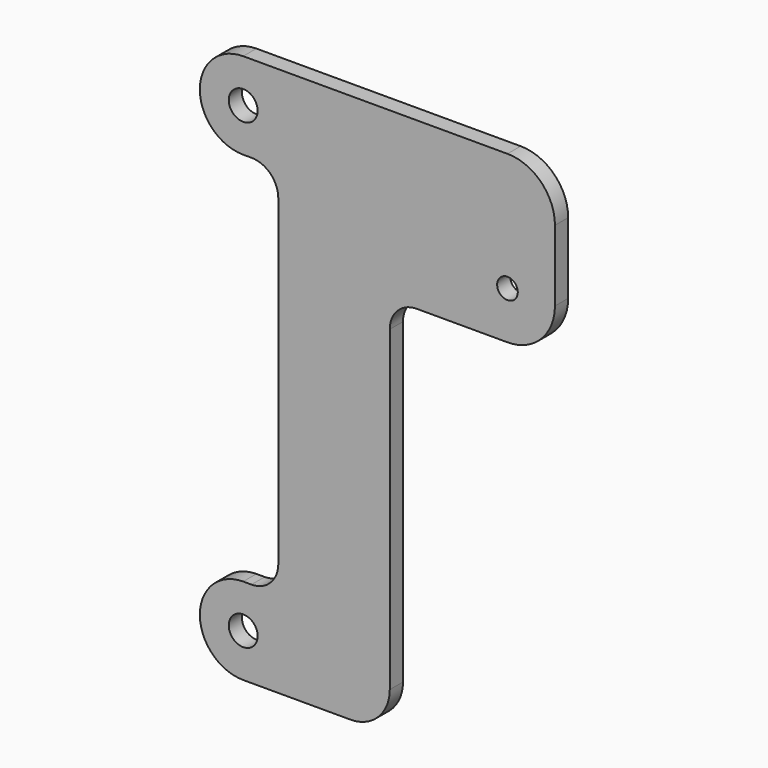
from build123d import *

# Parameters (mm, degrees)
F0_R     = 1.75
F0_R_2   = 1.25
F1_DEPTH = 2


with BuildPart() as f1:
    # F0 (on Front) → F1 (new body)
    with BuildSketch(Plane.XZ):
        with BuildLine():
            Line((32, 61.25), (0, 61.25))
            ThreePointArc((0, 61.25), (-5.25, 56), (0, 50.75))
            Line((0, 50.75), (1, 50.75))
            ThreePointArc((1, 50.75), (3.298097, 49.798097), (4.25, 47.5))
            Line((4.25, 47.5), (4.25, 8.5))
            ThreePointArc((4.25, 8.5), (3.298097, 6.201903), (1, 5.25))
            Line((1, 5.25), (0, 5.25))
            ThreePointArc((0, 5.25), (-5.25, 0), (0, -5.25))
            Line((0, -5.25), (13, -5.25))
            ThreePointArc((13, -5.25), (16.358757, -3.858757), (17.75, -0.5))
            Line((17.75, -0.5), (17.75, 37.905806))
            ThreePointArc((17.75, 37.905806), (18.701903, 40.203903), (21, 41.155806))
            Line((21, 41.155806), (31.741678, 41.155806))
            ThreePointArc((31.741678, 41.155806), (35.973484, 42.743809), (37.75, 46.9))
            Line((37.75, 46.9), (37.75, 55.5))
            ThreePointArc((37.75, 55.5), (36.065864, 59.565864), (32, 61.25))
        make_face()
        Circle(F0_R, mode=Mode.SUBTRACT)
        with Locations((0, 56)):
            Circle(F0_R, mode=Mode.SUBTRACT)
        with Locations((32, 46.9)):
            Circle(F0_R_2, mode=Mode.SUBTRACT)
    extrude(amount=F1_DEPTH)


solid = f1.part
